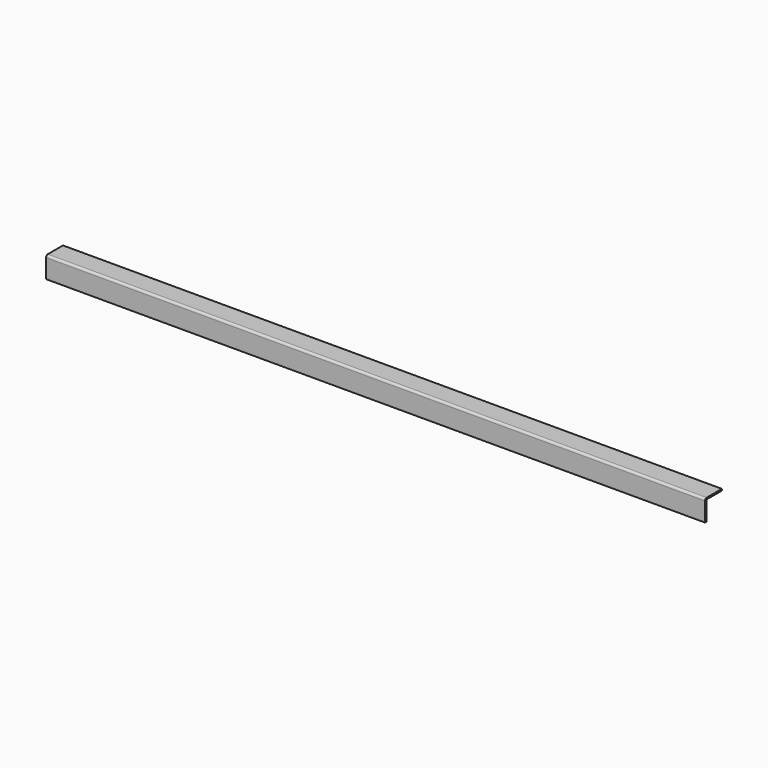
from build123d import *

# Parameters (mm, degrees)
F1_DEPTH = 1981.2


with BuildPart() as f1:
    # F0 (on Right) → F1 (new body)
    with BuildSketch(Plane.YZ):
        with BuildLine():
            Line((-28.115756, 44.895094), (-28.115756, -12.254906))
            Line((-28.115756, -12.254906), (-23.353256, -12.254906))
            Line((-23.353256, -12.254906), (-23.353256, 41.402594))
            ThreePointArc((-23.353256, 41.402594), (-21.865359, 44.994697), (-18.273256, 46.482594))
            Line((-18.273256, 46.482594), (35.384244, 46.482594))
            Line((35.384244, 46.482594), (35.384244, 51.245094))
            Line((35.384244, 51.245094), (-21.765756, 51.245094))
            ThreePointArc((-21.765756, 51.245094), (-26.255884, 49.385222), (-28.115756, 44.895094))
        make_face()
    extrude(amount=F1_DEPTH)


solid = f1.part
